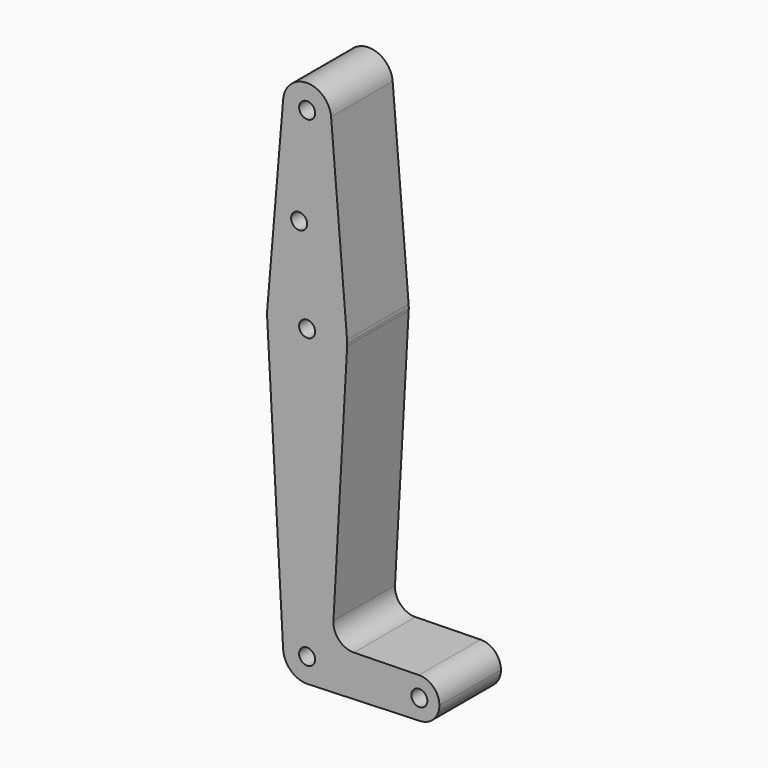
from build123d import *

# Parameters (mm, degrees)
F0_R     = 3.175
F1_DEPTH = 30.48


with BuildPart() as f1:
    # F0 (on Front) → F1 (new body)
    with BuildSketch(Plane.XZ):
        with BuildLine():
            ThreePointArc((0.340179, -9.518923), (6.854408, -6.613827), (9.525, 0))
            ThreePointArc((9.525, 0), (-0.264686, 9.521322), (-9.51029, -0.529167))
            ThreePointArc((-9.51029, -0.529167), (-6.420799, -7.03555), (0.340179, -9.518923))
        make_face()
        Circle(F0_R, mode=Mode.SUBTRACT)
        with BuildLine():
            ThreePointArc((-9.51029, -0.529167), (-0.264686, 9.521322), (9.525, 0))
            ThreePointArc((9.525, 0), (6.854408, -6.613827), (0.340179, -9.518923))
            Line((0.340179, -9.518923), (44.733482, -7.932436))
            ThreePointArc((44.733482, -7.932436), (36.515578, -0.221016), (44.291465, 7.935917))
            Line((44.291465, 7.935917), (18.516208, 7.421006))
            ThreePointArc((18.516208, 7.421006), (12.636582, 9.848959), (10.419497, 15.811298))
            Line((10.419497, 15.811298), (15.850483, 113.418056))
            ThreePointArc((15.850483, 113.418056), (0, 98.425), (-15.850483, 113.418056))
            Line((-15.850483, 113.418056), (-9.51029, -0.529167))
        make_face()
        with BuildLine():
            ThreePointArc((-15.819782, 115.622917), (-15.873461, 114.52102), (-15.850483, 113.418056))
            ThreePointArc((-15.850483, 113.418056), (0, 98.425), (15.850483, 113.418056))
            ThreePointArc((15.850483, 113.418056), (15.868869, 113.858857), (15.875, 114.3))
            ThreePointArc((15.875, 114.3), (15.86119, 114.962034), (15.819782, 115.622917))
            ThreePointArc((15.819782, 115.622917), (0, 130.175), (-15.819782, 115.622917))
        make_face()
        with Locations((0, 114.3)):
            Circle(F0_R, mode=Mode.SUBTRACT)
        with BuildLine():
            ThreePointArc((44.291465, 7.935917), (36.515578, -0.221016), (44.733482, -7.932436))
            ThreePointArc((44.733482, -7.932436), (50.162007, -5.511523), (52.3875, 0))
            ThreePointArc((52.3875, 0), (50.006327, 5.668434), (44.291465, 7.935917))
        make_face()
        with Locations((44.45, 0)):
            Circle(F0_R, mode=Mode.SUBTRACT)
        with BuildLine():
            Line((-9.491869, 191.29375), (-15.819782, 115.622917))
            ThreePointArc((-15.819782, 115.622917), (0, 130.175), (15.819782, 115.622917))
            Line((15.819782, 115.622917), (9.491869, 191.29375))
            ThreePointArc((9.491869, 191.29375), (9.516714, 190.897221), (9.525, 190.5))
            ThreePointArc((9.525, 190.5), (-0.397221, 180.983286), (-9.491869, 191.29375))
        make_face()
        with Locations((-3.175, 150.8252)):
            Circle(F0_R, mode=Mode.SUBTRACT)
        with BuildLine():
            ThreePointArc((9.491869, 191.29375), (0, 200.025), (-9.491869, 191.29375))
            ThreePointArc((-9.491869, 191.29375), (-0.397221, 180.983286), (9.525, 190.5))
            ThreePointArc((9.525, 190.5), (9.516714, 190.897221), (9.491869, 191.29375))
        make_face()
        with Locations((0, 190.5)):
            Circle(F0_R, mode=Mode.SUBTRACT)
    extrude(amount=F1_DEPTH)


solid = f1.part
